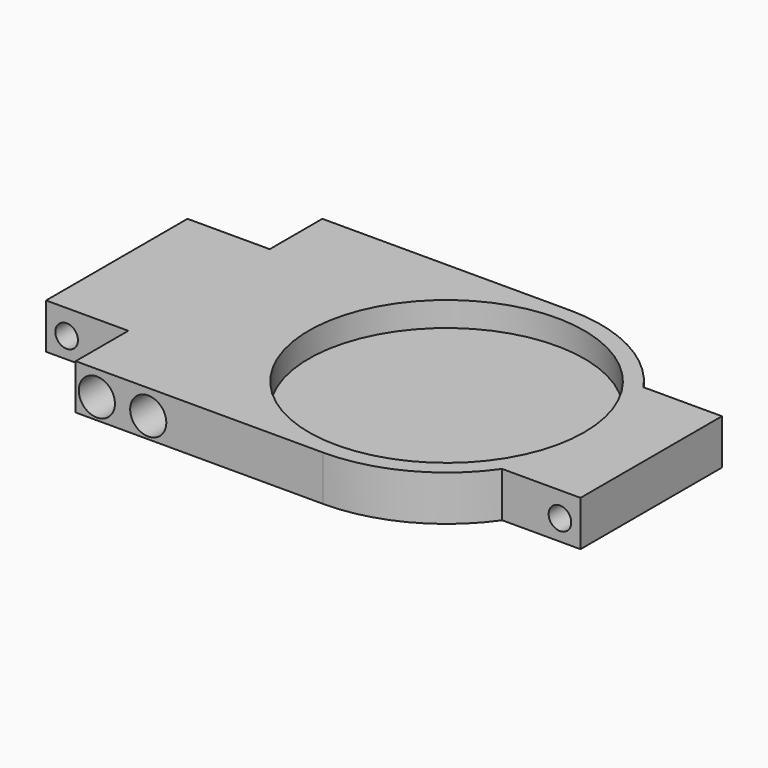
from build123d import *

# Parameters (mm, degrees)
SKETCH_W            = 24.4
SKETCH_H            = 10.4
PAD_DEPTH           = 10
PAD_DEPTH_BACK      = 1
SKETCH001_R         = 33.5
POCKET_DEPTH        = 5
POCKET_DEPTH_BACK   = 100
SKETCH002_R         = 2.75
HOLE_DEPTH          = 72.501
HOLE001_D           = 4.5
HOLE001_DEPTH       = 70
HOLE001_CBORE_D     = 8.8
HOLE001_CBORE_DEPTH = 50
HOLE001_TIPS_R      = 2.25
SKETCH006_W         = 27.565709
SKETCH006_H         = 14.558517
PAD001_DEPTH        = 0.5


with BuildPart() as part:
    # Sketch → Pad (new body, two sides)
    with BuildSketch(Plane.XY) as pad_sk:
        with BuildLine():
            Line((-43.4, 21.5), (-23.4, 21.5))
            Line((-23.4, 21.5), (-23.4, 37.5))
            Line((-23.4, 37.5), (36.821733, 37.5))
            ThreePointArc((67.546316, 21.5), (54.142241, 33.260337), (36.821733, 37.5))
            Line((67.546316, 21.5), (86.6, 21.5))
            Line((86.6, 21.5), (86.6, -21.5))
            Line((86.6, -21.5), (67.546316, -21.5))
            ThreePointArc((36.821733, -37.5), (54.142241, -33.260337), (67.546316, -21.5))
            Line((36.821733, -37.5), (-23.4, -37.5))
            Line((-23.4, -37.5), (-23.4, -21.5))
            Line((-23.4, -21.5), (-43.4, -21.5))
            Line((-43.4, -21.5), (-43.4, 21.5))
        make_face()
        with Locations((-12.2, 12.3)):
            Rectangle(SKETCH_W, SKETCH_H, mode=Mode.SUBTRACT)
    extrude(amount=-PAD_DEPTH)
    extrude(pad_sk.sketch, amount=PAD_DEPTH_BACK)

    # Sketch001 → Pocket (cut, two sides)
    with BuildSketch(Plane.XY) as pocket_sk:
        with Locations((36.821733, 0)):
            Circle(SKETCH001_R)
    extrude(amount=-POCKET_DEPTH, mode=Mode.SUBTRACT)
    extrude(pocket_sk.sketch, amount=POCKET_DEPTH_BACK, mode=Mode.SUBTRACT)

    # Sketch002 → Hole (cut, through all)
    with BuildSketch(Plane.XZ.offset(35)):
        with Locations((-38.4, -5)):
            Circle(SKETCH002_R)
        with Locations((81.6, -5)):
            Circle(SKETCH002_R)
    extrude(amount=-HOLE_DEPTH, mode=Mode.SUBTRACT)

    # Hole001
    with Locations(Plane.XZ.offset(37.5)):
        with Locations((-18.25, -5), (-5.75, -5)):
            CounterBoreHole(HOLE001_D / 2, HOLE001_CBORE_D / 2, HOLE001_CBORE_DEPTH, depth=HOLE001_DEPTH)

    # Hole001 tips → Hole001 tip 1 section 0
    with BuildSketch(Plane.XZ.offset(-32.5), mode=Mode.PRIVATE) as hole001_tip_1_s0:
        with Locations((-18.25, -5)):
            Circle(HOLE001_TIPS_R)
    loft([hole001_tip_1_s0.sketch, Vertex(-18.25, 33.851936, -5)], mode=Mode.SUBTRACT)

    # Hole001 tips → Hole001 tip 2 section 0
    with BuildSketch(Plane.XZ.offset(-32.5), mode=Mode.PRIVATE) as hole001_tip_2_s0:
        with Locations((-5.75, -5)):
            Circle(HOLE001_TIPS_R)
    loft([hole001_tip_2_s0.sketch, Vertex(-5.75, 33.851936, -5)], mode=Mode.SUBTRACT)

    # Sketch006 → Pad001 (join)
    with BuildSketch(Plane.XY.offset(0.5)):
        with Locations((-12.99486, 11.748647)):
            Rectangle(SKETCH006_W, SKETCH006_H)
    extrude(amount=PAD001_DEPTH)


solid = part.part
